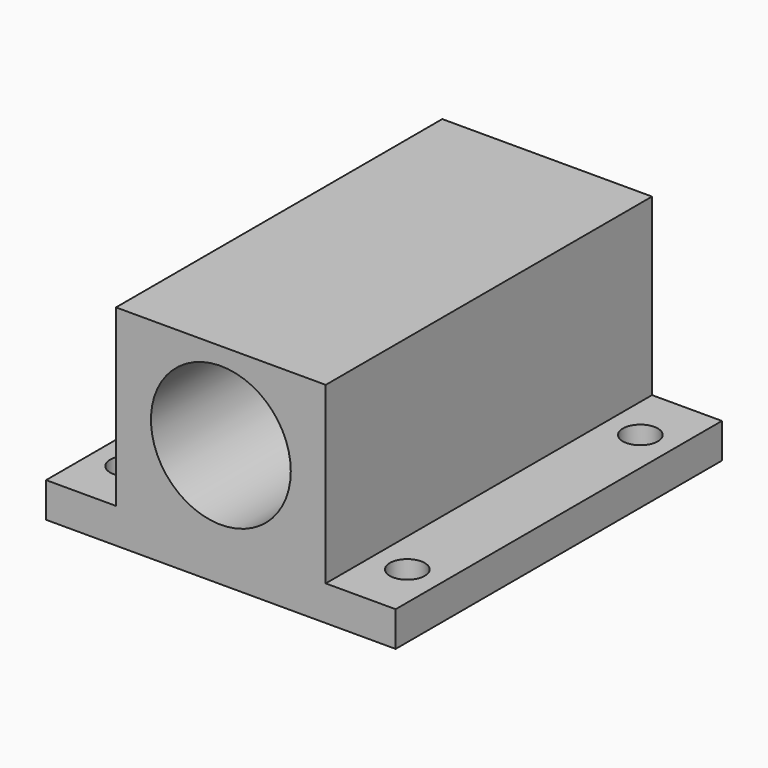
from build123d import *

# Parameters (mm, degrees)
F0_W     = 30
F0_H     = 35
F1_DEPTH = 3
F2_W     = 18
F2_H     = 15
F3_DEPTH = 35
F4_R     = 6
F5_DEPTH = 40
F6_R     = 1.5
F7_DEPTH = 25


with BuildPart() as f1:
    # F0 (on Top) → F1 (new body)
    with BuildSketch(Plane.XY):
        Rectangle(F0_W, F0_H)
    extrude(amount=F1_DEPTH)

    # F2 (on face) → F3 (join)
    with BuildSketch(Plane.XZ.offset(17.5)):
        with Locations((0, 10.5)):
            Rectangle(F2_W, F2_H)
    extrude(amount=-F3_DEPTH)

    # F4 (on face) → F5 (cut)
    with BuildSketch(Plane.XZ.offset(17.5)):
        with Locations((0, 10.5)):
            Circle(F4_R)
    extrude(amount=-F5_DEPTH, mode=Mode.SUBTRACT)

    # F6 (on face) → F7 (cut)
    with BuildSketch(Plane.XY.offset(3)):
        with Locations((12, 12.5)):
            Circle(F6_R)
        with Locations((12, -12.5)):
            Circle(F6_R)
        with Locations((-12, -12.5)):
            Circle(F6_R)
        with Locations((-12, 12.5)):
            Circle(F6_R)
    extrude(amount=-F7_DEPTH, mode=Mode.SUBTRACT)


solid = f1.part
